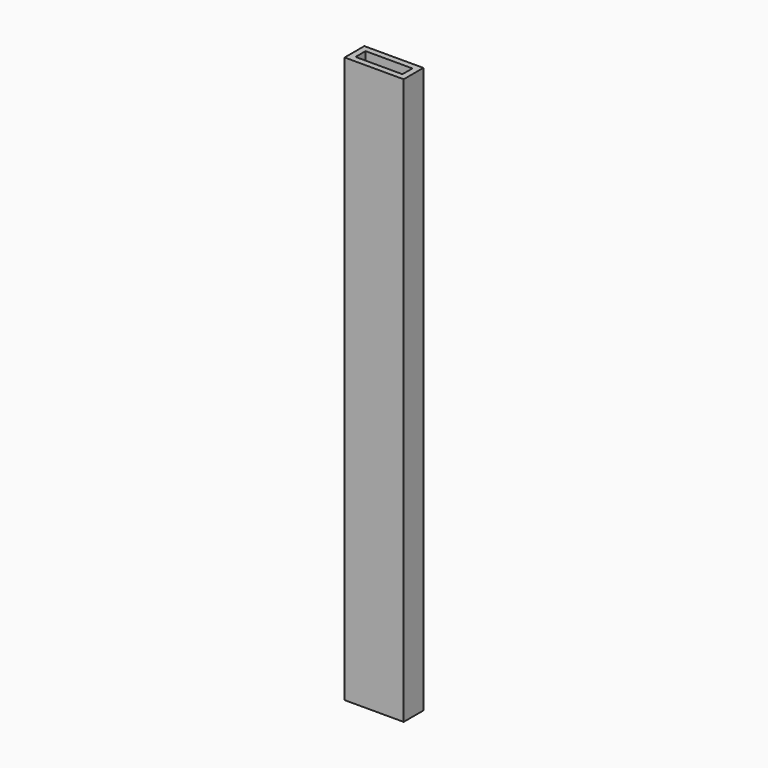
from build123d import *

# Parameters (mm, degrees)
F0_W     = 14.6
F0_H     = 140
F1_DEPTH = 6.1
F2_T     = -1.5


with BuildPart() as f1:
    # F0 (on Front) → F1 (new body)
    with BuildSketch(Plane.XZ):
        Rectangle(F0_W, F0_H)
    extrude(amount=F1_DEPTH)

    # F2
    f2_openings = [f1.faces().sort_by_distance(p)[0] for p in [
        (0, -3.05, -70),
        (0, -3.05, 70),
    ]]
    offset(amount=F2_T, openings=f2_openings)


solid = f1.part
